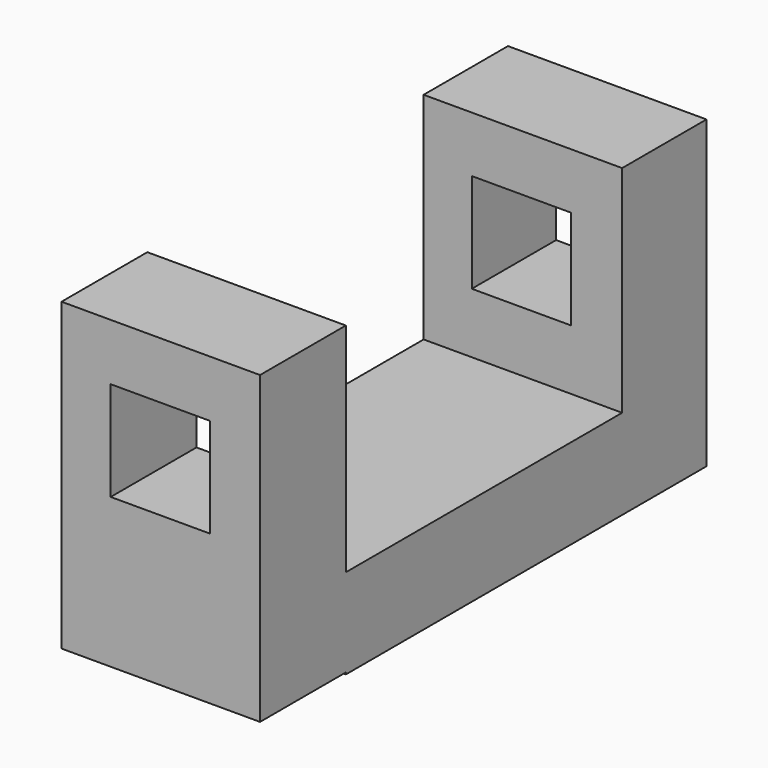
from build123d import *

# Parameters (mm, degrees)
F1_DEPTH = 25.4
F2_DEPTH = 25.4
F3_W     = 12.7
F3_H     = 12.7
F4_DEPTH = 50.8
F5_W     = 12.7
F5_H     = 12.7
F6_DEPTH = 50.8


with BuildPart() as f1:
    # F0 (on Right) → F1 (new body)
    with BuildSketch(Plane.YZ):
        Polygon((-21.049142, 27.794171), (-34.771789, 27.794171), (-34.771789, -11.280479), (-21.049142, -11.280479), (-21.049142, -11.513066), (23.142429, -11.513066), (36.632486, -11.513066), (36.632486, 27.561583), (23.142429, 27.561583), (23.142429, 0), (-21.049142, 0), align=None)
    extrude(amount=F1_DEPTH)

    # F0 (on Right) → F2 (join)
    with BuildSketch(Plane.YZ):
        Polygon((-21.049142, 27.794171), (-34.771789, 27.794171), (-34.771789, -11.280479), (-21.049142, -11.280479), (-21.049142, -11.513066), (23.142429, -11.513066), (36.632486, -11.513066), (36.632486, 27.561583), (23.142429, 27.561583), (23.142429, 0), (-21.049142, 0), align=None)
    extrude(amount=F2_DEPTH)

    # F3 (on face) → F4 (cut)
    with BuildSketch(Plane.XZ.offset(34.771789)):
        with Locations((12.642618, 14.197407)):
            Rectangle(F3_W, F3_H)
    extrude(amount=-F4_DEPTH, mode=Mode.SUBTRACT)

    # F5 (on face) → F6 (cut)
    with BuildSketch(Plane(origin=(0, 36.632486, 0), x_dir=(-1, 0, 0), z_dir=(0, 1, 0))):
        with Locations((-12.511186, 14.061676)):
            Rectangle(F5_W, F5_H)
    extrude(amount=-F6_DEPTH, mode=Mode.SUBTRACT)


solid = f1.part
